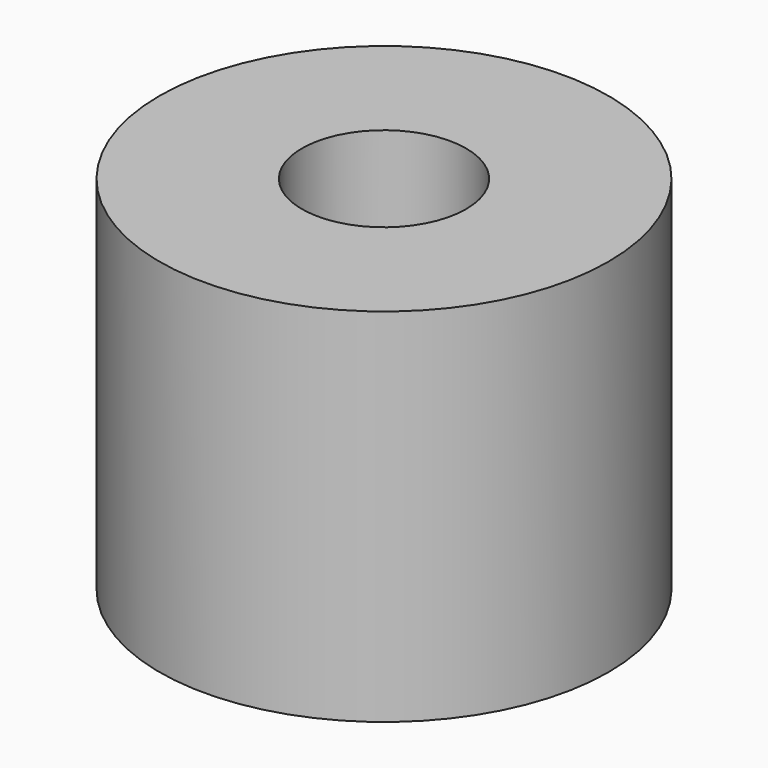
from build123d import *

# Parameters (mm, degrees)
CYLINDER221_R     = 1.5
CYLINDER221_DEPTH = 10
CYLINDER222_R     = 4.1
CYLINDER222_DEPTH = 6.6


with BuildPart() as cylinder221:
    # Cylinder221 → Cylinder221 (new body)
    with BuildSketch(Plane.XY.offset(-1.9)):
        Circle(CYLINDER221_R)
    extrude(amount=CYLINDER221_DEPTH)


with BuildPart() as cut160:
    # Cylinder222 → Cylinder222 (new body)
    with BuildSketch(Plane.XY):
        Circle(CYLINDER222_R)
    extrude(amount=CYLINDER222_DEPTH)

    # Cut160: cut Cylinder221
    add(cylinder221.part, mode=Mode.SUBTRACT)


with BuildPart() as cut160_1:
    # Cut160 placement: moved
    add(cut160.part.moved(Location((76.8, 166.7, 52.1))))


solid = cut160_1.part
